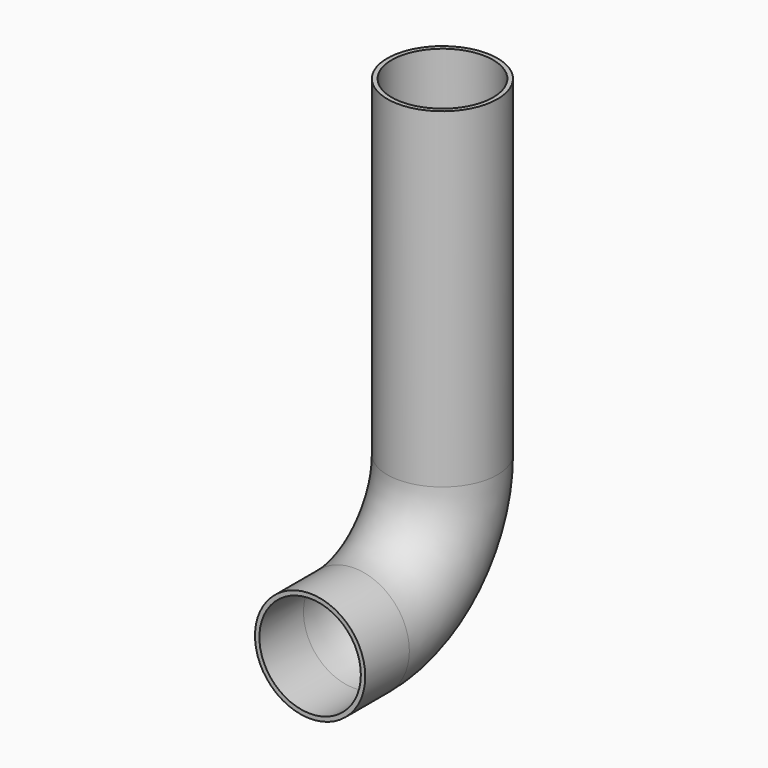
from build123d import *

# Parameters (mm, degrees)
F0_R   = 25
F0_R_2 = 23


with BuildPart() as f2:
    # F2: sweep along a path in F1
    with BuildLine(Plane.YZ) as f2_path:
        Line((0, 0), (25, 0))
        ThreePointArc((25, 0), (60.3553390593, 14.6446609407), (75, 50))
        Line((75, 50), (75, 200))
    # F0 (on Front) → F2 (sweep)
    with BuildSketch(Plane.XZ):
        Circle(F0_R)
        Circle(F0_R_2, mode=Mode.SUBTRACT)
    sweep(path=f2_path.line)


solid = f2.part
